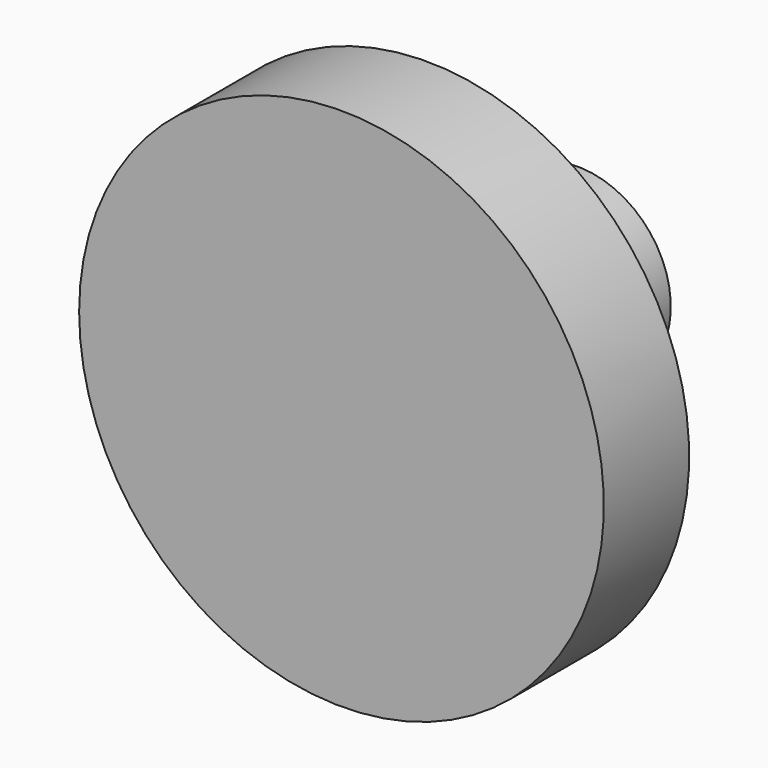
from build123d import *

# Parameters (mm, degrees)
F0_W = 48.9624813199
F0_H = 55.1129430532
F2_W = 32.3200635612
F2_H = 35.455590114


with BuildPart() as f1:
    # F0 (on Top) → F1 (revolve)
    with BuildSketch(Plane.XY):
        with Locations((-24.48124066, 27.5564715266)):
            Rectangle(F0_W, F0_H)
    revolve(axis=Axis((0, 27.5564715266, 0), (0, 1, 0)))

    # F2 (on Top) → F3 (revolve, cut)
    with BuildSketch(Plane.XY):
        with Locations((-33.5260350257, 37.6263419166)):
            Rectangle(F2_W, F2_H)
    revolve(axis=Axis((0, 28.1594563276, 0), (0, -1, 0)), mode=Mode.SUBTRACT)


solid = f1.part
